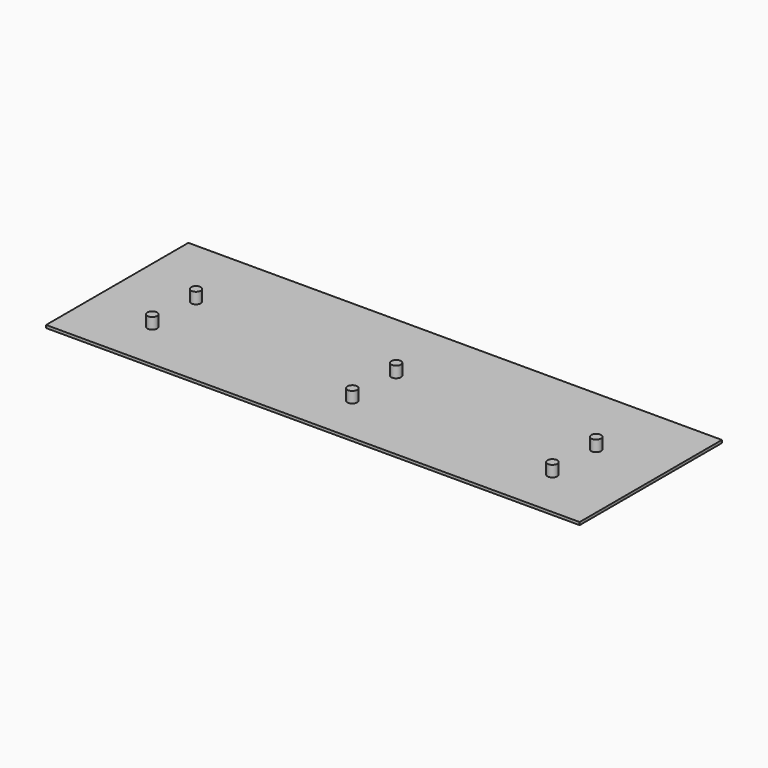
from build123d import *

# Parameters (mm, degrees)
F1_W     = 1219.2
F1_H     = 406.4
F2_DEPTH = 6.35
F3_R     = 11.1125
F0_DEPTH = 25.4


with BuildPart() as f2:
    # F1 (on Top) → F2 (new body)
    with BuildSketch(Plane.XY):
        with Locations((609.6, 203.2)):
            Rectangle(F1_W, F1_H)
    extrude(amount=F2_DEPTH)

    # F3 (on face) → F0 (join)
    with BuildSketch(Plane.XY.offset(6.35)):
        with Locations((152.4, 112.7125)):
            Circle(F3_R)
        with Locations((152.4, 237.71352)):
            Circle(F3_R)
        with Locations((609.6, 237.71352)):
            Circle(F3_R)
        with Locations((609.6, 112.7125)):
            Circle(F3_R)
        with Locations((1066.8, 237.71352)):
            Circle(F3_R)
        with Locations((1066.8, 112.7125)):
            Circle(F3_R)
    extrude(amount=F0_DEPTH)


solid = f2.part
